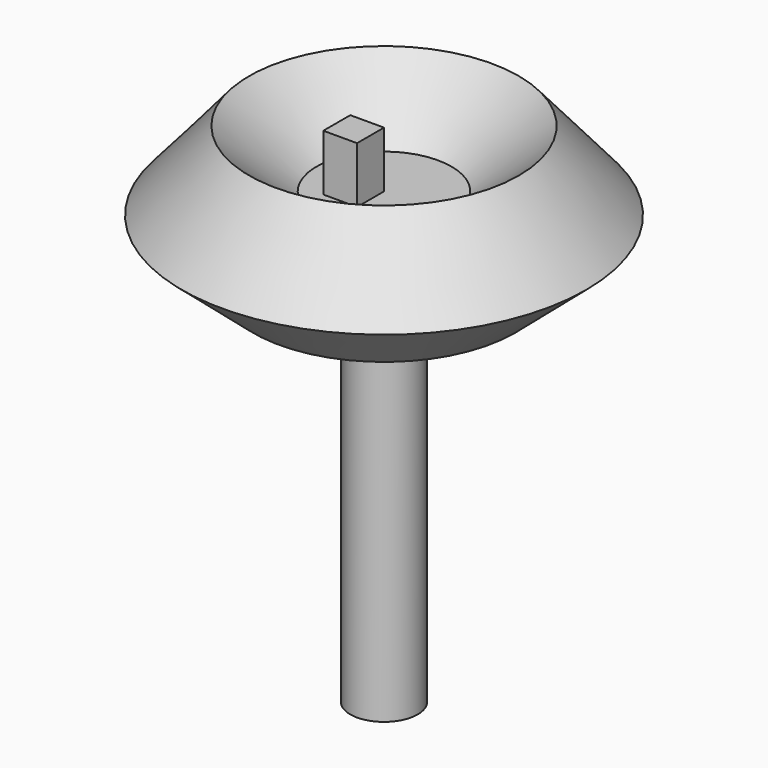
from build123d import *

# Parameters (mm, degrees)
F2_W     = 7.62
F2_H     = 7.62
F3_DEPTH = 12.7


with BuildPart() as f1:
    # F0 (on Front) → F1 (revolve)
    with BuildSketch(Plane.XZ):
        Polygon((15.24, 20.32), (0, 20.32), (0, -81.28), (7.62, -81.28), (7.62, 15.602857), (17.78, 15.602857), (29.613412, 1.79721), (45.72, 15.602857), (30.48, 33.382857), align=None)
    revolve(axis=Axis((0, 0, -30.48), (0, 0, 1)))

    # F2 (on face) → F3 (join)
    with BuildSketch(Plane.XY.offset(20.32)):
        with Locations((-3.81, -3.81)):
            Rectangle(F2_W, F2_H)
    extrude(amount=F3_DEPTH)


solid = f1.part
